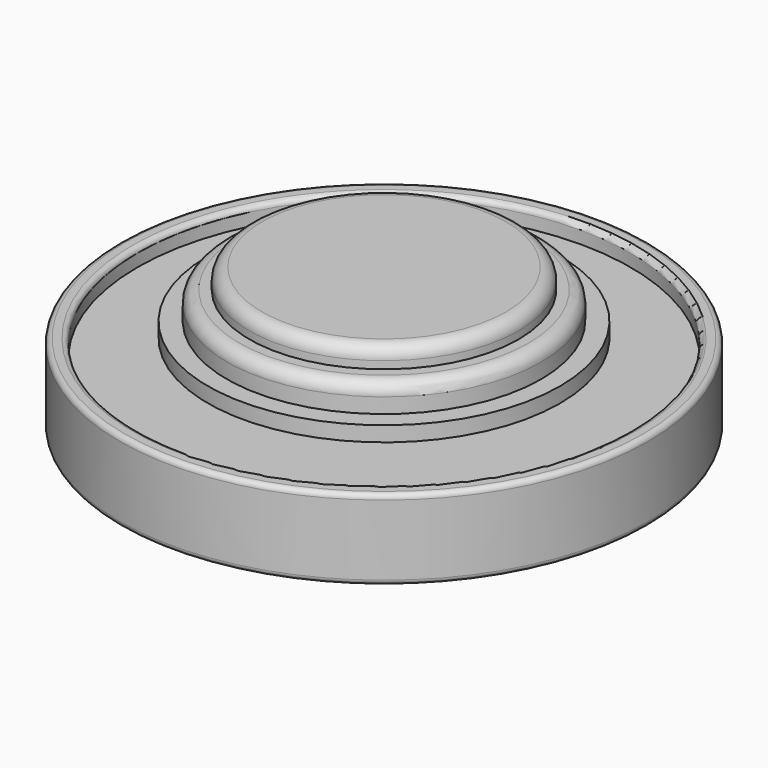
from build123d import *

# Parameters (mm, degrees)
F0_R      = 13.335
F1_DEPTH  = 4.064
F2_R      = 8.89
F3_DEPTH  = 0.762
F4_R      = 7.9375
F5_DEPTH  = 2.159
F6_R      = 6.7945
F7_DEPTH  = 3.175
F8_R      = 0.635
F9_R      = 12.446
F10_DEPTH = 0.889
F11_R     = 12.446
F12_DEPTH = 1.778
F13_R     = 0.254


with BuildPart() as f1:
    # F0 (on Top) → F1 (new body)
    with BuildSketch(Plane.XY):
        Circle(F0_R)
    extrude(amount=F1_DEPTH)

    # F2 (on face) → F3 (join)
    with BuildSketch(Plane.XY.offset(4.064)):
        Circle(F2_R)
    extrude(amount=F3_DEPTH)

    # F4 (on face) → F5 (join)
    with BuildSketch(Plane.XY.offset(4.064)):
        Circle(F4_R)
    extrude(amount=F5_DEPTH)

    # F6 (on face) → F7 (join)
    with BuildSketch(Plane.XY.offset(4.064)):
        Circle(F6_R)
    extrude(amount=F7_DEPTH)

    # F8
    f8_edges = [f1.edges().sort_by_distance(p)[0] for p in [
        (-7.9375, 0, 6.223),
        (-6.7945, 0, 7.239),
    ]]
    fillet(f8_edges, radius=F8_R)

    # F9 (on face) → F10 (cut)
    with BuildSketch(Plane.XY.offset(4.064)):
        Circle(F9_R)
    extrude(amount=-F10_DEPTH, mode=Mode.SUBTRACT)

    # F11 (on face) → F12 (cut)
    with BuildSketch(Plane(origin=(0, 0, 0), x_dir=(1, 0, 0), z_dir=(0, 0, -1))):
        Circle(F11_R)
    extrude(amount=-F12_DEPTH, mode=Mode.SUBTRACT)

    # F13
    f13_edges = [f1.edges().sort_by_distance(p)[0] for p in [
        (-12.446, 0, 4.064),
        (-13.335, 0, 4.064),
        (-13.335, 0, 0),
        (-12.446, 0, 0),
    ]]
    fillet(f13_edges, radius=F13_R)


solid = f1.part
